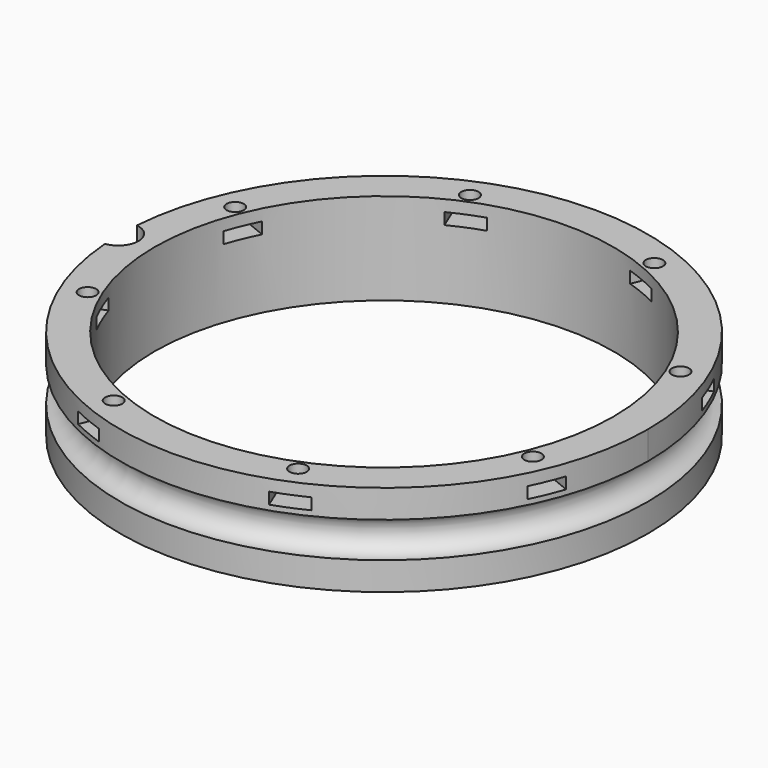
from build123d import *

# Parameters (mm, degrees)
BOX147_W                    = 6
BOX147_H                    = 8
BOX147_DEPTH                = 2
BOX147_PLACEMENT_ANGLE      = 45
BOX151_W                    = 6
BOX151_H                    = 8
BOX151_DEPTH                = 2
BOX148_W                    = 6
BOX148_H                    = 8
BOX148_DEPTH                = 2
BOX149_W                    = 6
BOX149_H                    = 8
BOX149_DEPTH                = 2
BOX149_PLACEMENT_ANGLE      = 135
BOX150_W                    = 6
BOX150_H                    = 8
BOX150_DEPTH                = 2
BOX154_W                    = 6
BOX154_H                    = 8
BOX154_DEPTH                = 2
BOX154_PLACEMENT_ANGLE      = 225
BOX152_W                    = 6
BOX152_H                    = 8
BOX152_DEPTH                = 2
BOX153_W                    = 6
BOX153_H                    = 8
BOX153_DEPTH                = 2
BOX153_PLACEMENT_ANGLE      = 45
COMPOUND293_PLACEMENT_ANGLE = 22.5
CYLINDER369_R               = 1.5
CYLINDER369_DEPTH           = 12
CYLINDER369_PLACEMENT_ANGLE = 45
CYLINDER370_R               = 1.5
CYLINDER370_DEPTH           = 12
CYLINDER371_R               = 1.5
CYLINDER371_DEPTH           = 12
CYLINDER371_PLACEMENT_ANGLE = 135
CYLINDER366_R               = 1.5
CYLINDER366_DEPTH           = 12
CYLINDER372_R               = 1.5
CYLINDER372_DEPTH           = 12
CYLINDER372_PLACEMENT_ANGLE = 225
CYLINDER368_R               = 1.5
CYLINDER368_DEPTH           = 12
CYLINDER367_R               = 1.5
CYLINDER367_DEPTH           = 12
CYLINDER367_PLACEMENT_ANGLE = 45
CYLINDER365_R               = 1.5
CYLINDER365_DEPTH           = 12
COMPOUND292_PLACEMENT_ANGLE = 22.5
CYLINDER329_R               = 3.5
CYLINDER329_DEPTH           = 20
TORUS003_R                  = 3.1
TUBE032_R                   = 46
TUBE032_R_2                 = 40
TUBE032_DEPTH               = 16


with BuildPart() as krychle147:
    # Box147 → Box147 (new body)
    with BuildSketch(Plane.XY):
        with Locations((3, 4)):
            Rectangle(BOX147_W, BOX147_H)
    extrude(amount=BOX147_DEPTH)


with BuildPart() as krychle147_1:
    # Box147 placement: moved
    add(krychle147.part.moved(Location((30.405592, -34.648232, 33))).rotate(Axis((30.405592, -34.648232, 33), (0, 0, 1)), BOX147_PLACEMENT_ANGLE))


with BuildPart() as krychle151:
    # Box151 → Box151 (new body)
    with BuildSketch(Plane(origin=(46, -3, 33), x_dir=(0, 1, 0), z_dir=(0, 0, 1))):
        with Locations((3, 4)):
            Rectangle(BOX151_W, BOX151_H)
    extrude(amount=BOX151_DEPTH)


with BuildPart() as krychle148:
    # Box148 → Box148 (new body)
    with BuildSketch(Plane(origin=(-3, -46, 33), x_dir=(1, 0, 0), z_dir=(0, 0, 1))):
        with Locations((3, 4)):
            Rectangle(BOX148_W, BOX148_H)
    extrude(amount=BOX148_DEPTH)


with BuildPart() as krychle149:
    # Box149 → Box149 (new body)
    with BuildSketch(Plane.XY):
        with Locations((3, 4)):
            Rectangle(BOX149_W, BOX149_H)
    extrude(amount=BOX149_DEPTH)


with BuildPart() as krychle149_1:
    # Box149 placement: moved
    add(krychle149.part.moved(Location((34.648232, 30.405592, 33))).rotate(Axis((34.648232, 30.405592, 33), (0, 0, 1)), BOX149_PLACEMENT_ANGLE))


with BuildPart() as krychle150:
    # Box150 → Box150 (new body)
    with BuildSketch(Plane(origin=(3, 46, 33), x_dir=(-1, 0, 0), z_dir=(0, 0, 1))):
        with Locations((3, 4)):
            Rectangle(BOX150_W, BOX150_H)
    extrude(amount=BOX150_DEPTH)


with BuildPart() as krychle154:
    # Box154 → Box154 (new body)
    with BuildSketch(Plane.XY):
        with Locations((3, 4)):
            Rectangle(BOX154_W, BOX154_H)
    extrude(amount=BOX154_DEPTH)


with BuildPart() as krychle154_1:
    # Box154 placement: moved
    add(krychle154.part.moved(Location((-30.405592, 34.648232, 33))).rotate(Axis((-30.405592, 34.648232, 33), (0, 0, 1)), BOX154_PLACEMENT_ANGLE))


with BuildPart() as krychle152:
    # Box152 → Box152 (new body)
    with BuildSketch(Plane(origin=(-46, 3, 33), x_dir=(0, -1, 0), z_dir=(0, 0, 1))):
        with Locations((3, 4)):
            Rectangle(BOX152_W, BOX152_H)
    extrude(amount=BOX152_DEPTH)


with BuildPart() as compound293:
    # Box153 → Box153 (new body)
    with BuildSketch(Plane.XY):
        with Locations((3, 4)):
            Rectangle(BOX153_W, BOX153_H)
    extrude(amount=BOX153_DEPTH)


with BuildPart() as compound293_1:
    # Box153 placement: moved
    add(compound293.part.moved(Location((-34.648232, -30.405592, 33))).rotate(Axis((-34.648232, -30.405592, 33), (0, 0, -1)), BOX153_PLACEMENT_ANGLE))

    # Compound293: union Krychle147, Krychle151, Krychle148, Krychle149, Krychle150, Krychle154, Krychle152
    add(krychle147_1.part)
    add(krychle151.part)
    add(krychle148.part)
    add(krychle149_1.part)
    add(krychle150.part)
    add(krychle154_1.part)
    add(krychle152.part)


with BuildPart() as compound293_2:
    # Compound293 placement: moved
    add(compound293_1.part.rotate(Axis((0, 0, 0), (0, 0, 1)), COMPOUND293_PLACEMENT_ANGLE))


with BuildPart() as obj1:
    # Cylinder369 → Cylinder369 (new body)
    with BuildSketch(Plane.XY):
        Circle(CYLINDER369_R)
    extrude(amount=CYLINDER369_DEPTH)


with BuildPart() as obj1_1:
    # Cylinder369 placement: moved
    add(obj1.part.moved(Location((29.698485, -29.698485, 33.5))).rotate(Axis((29.698485, -29.698485, 33.5), (0, 0, 1)), CYLINDER369_PLACEMENT_ANGLE))


with BuildPart() as obj2:
    # Cylinder370 → Cylinder370 (new body)
    with BuildSketch(Plane(origin=(42, 0, 33.5), x_dir=(0, 1, 0), z_dir=(0, 0, 1))):
        Circle(CYLINDER370_R)
    extrude(amount=CYLINDER370_DEPTH)


with BuildPart() as obj3:
    # Cylinder371 → Cylinder371 (new body)
    with BuildSketch(Plane.XY):
        Circle(CYLINDER371_R)
    extrude(amount=CYLINDER371_DEPTH)


with BuildPart() as obj3_1:
    # Cylinder371 placement: moved
    add(obj3.part.moved(Location((29.698485, 29.698485, 33.5))).rotate(Axis((29.698485, 29.698485, 33.5), (0, 0, 1)), CYLINDER371_PLACEMENT_ANGLE))


with BuildPart() as obj4:
    # Cylinder366 → Cylinder366 (new body)
    with BuildSketch(Plane(origin=(0, 42, 33.5), x_dir=(-1, 0, 0), z_dir=(0, 0, 1))):
        Circle(CYLINDER366_R)
    extrude(amount=CYLINDER366_DEPTH)


with BuildPart() as obj5:
    # Cylinder372 → Cylinder372 (new body)
    with BuildSketch(Plane.XY):
        Circle(CYLINDER372_R)
    extrude(amount=CYLINDER372_DEPTH)


with BuildPart() as obj5_1:
    # Cylinder372 placement: moved
    add(obj5.part.moved(Location((-29.698485, 29.698485, 33.5))).rotate(Axis((-29.698485, 29.698485, 33.5), (0, 0, 1)), CYLINDER372_PLACEMENT_ANGLE))


with BuildPart() as obj6:
    # Cylinder368 → Cylinder368 (new body)
    with BuildSketch(Plane(origin=(-42, 0, 33.5), x_dir=(0, -1, 0), z_dir=(0, 0, 1))):
        Circle(CYLINDER368_R)
    extrude(amount=CYLINDER368_DEPTH)


with BuildPart() as obj7:
    # Cylinder367 → Cylinder367 (new body)
    with BuildSketch(Plane.XY):
        Circle(CYLINDER367_R)
    extrude(amount=CYLINDER367_DEPTH)


with BuildPart() as obj7_1:
    # Cylinder367 placement: moved
    add(obj7.part.moved(Location((-29.698485, -29.698485, 33.5))).rotate(Axis((-29.698485, -29.698485, 33.5), (0, 0, -1)), CYLINDER367_PLACEMENT_ANGLE))


with BuildPart() as compound292:
    # Cylinder365 → Cylinder365 (new body)
    with BuildSketch(Plane(origin=(0, -42, 33.5), x_dir=(1, 0, 0), z_dir=(0, 0, 1))):
        Circle(CYLINDER365_R)
    extrude(amount=CYLINDER365_DEPTH)

    # Compound292: union obj1, obj2, obj3, obj4, obj5, obj6, obj7
    add(obj1_1.part)
    add(obj2.part)
    add(obj3_1.part)
    add(obj4.part)
    add(obj5_1.part)
    add(obj6.part)
    add(obj7_1.part)


with BuildPart() as compound292_1:
    # Compound292 placement: moved
    add(compound292.part.rotate(Axis((0, 0, 0), (0, 0, 1)), COMPOUND292_PLACEMENT_ANGLE))


with BuildPart() as obj8:
    # Cylinder329 → Cylinder329 (new body)
    with BuildSketch(Plane(origin=(-46.3, 0, 29), x_dir=(1, 0, 0), z_dir=(0, 0, 1))):
        Circle(CYLINDER329_R)
    extrude(amount=CYLINDER329_DEPTH)


with BuildPart() as obj9:
    # Torus003 → Torus003 (revolve)
    with BuildSketch(Plane(origin=(0, 0, 29), x_dir=(1, 0, 0), z_dir=(0, -1, 0))):
        with Locations((46, 0)):
            Circle(TORUS003_R)
    revolve(axis=Axis((0, 0, 29), (0, 0, 1)))


with BuildPart() as cut148:
    # Tube032 → Tube032 (new body)
    with BuildSketch(Plane.XY.offset(21)):
        Circle(TUBE032_R)
        Circle(TUBE032_R_2, mode=Mode.SUBTRACT)
    extrude(amount=TUBE032_DEPTH)

    # Cut136: cut obj9
    add(obj9.part, mode=Mode.SUBTRACT)

    # Cut140: cut obj8
    add(obj8.part, mode=Mode.SUBTRACT)

    # Cut147: cut Compound292
    add(compound292_1.part, mode=Mode.SUBTRACT)

    # Cut148: cut Compound293
    add(compound293_2.part, mode=Mode.SUBTRACT)


solid = cut148.part
